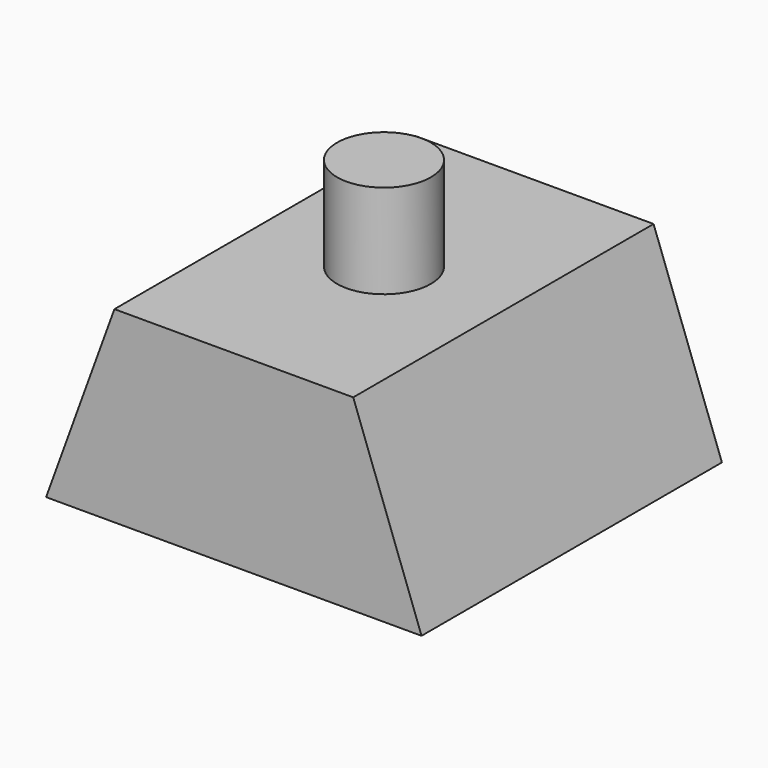
from build123d import *

# Parameters (mm, degrees)
F1_DEPTH = 20
F2_R     = 2.5
F3_DEPTH = 5


with BuildPart() as f1:
    # F0 (on Front) → F1 (new body)
    with BuildSketch(Plane.XZ):
        Polygon((-10.035631, 9.293709), (-13.675631, -0.706291), (6.324369, -0.706291), (2.684369, 9.293709), align=None)
    extrude(amount=-F1_DEPTH)

    # F2 (on face) → F3 (join)
    with BuildSketch(Plane.XY.offset(9.293709)):
        with Locations((-3.675631, 10)):
            Circle(F2_R)
    extrude(amount=F3_DEPTH)


solid = f1.part
